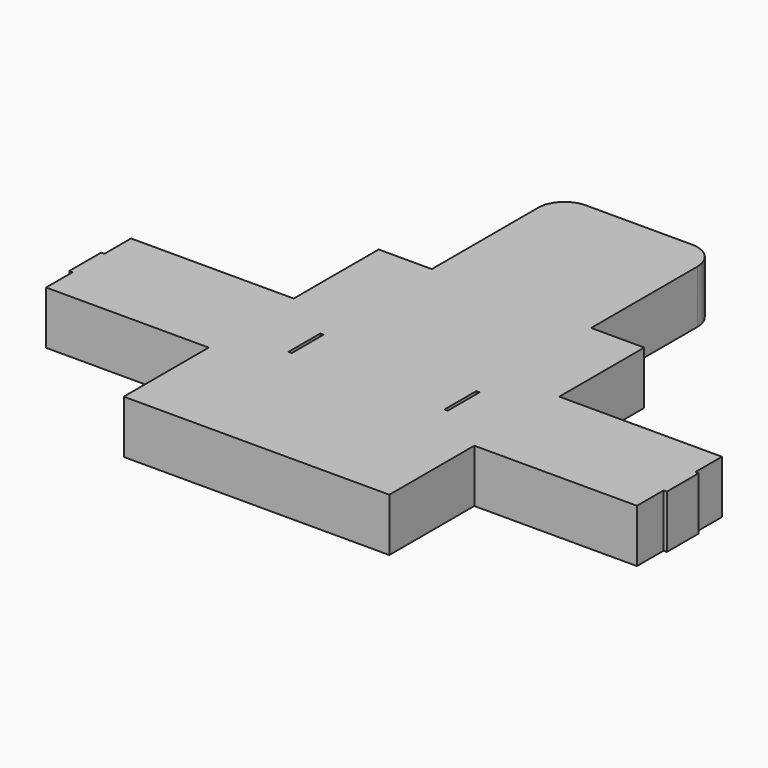
from build123d import *

# Parameters (mm, degrees)
F0_W     = 25.4
F0_H     = 50.8
F0_W_2   = 76.2
F0_W_3   = 1.5875
F0_H_2   = 19.05
F1_DEPTH = 25.4


with BuildPart() as f1:
    # F0 (on Top) → F1 (new body)
    with BuildSketch(Plane.XY):
        Polygon((63.5, 25.4), (38.1, 25.4), (38.1, 9.525), (38.1, -9.525), (38.1, -25.4), (63.5, -25.4), (88.9, -25.4), (88.9, 25.4), align=None)
        with Locations((50.8, 50.8)):
            Rectangle(F0_W, F0_H)
        with Locations((0, 50.8)):
            Rectangle(F0_W_2, F0_H)
        Polygon((-38.1, 9.525), (-38.1, 25.4), (-63.5, 25.4), (-88.9, 25.4), (-88.9, -25.4), (-63.5, -25.4), (-38.1, -25.4), (-38.1, -9.525), align=None)
        with Locations((-50.8, 50.8)):
            Rectangle(F0_W, F0_H)
        with Locations((0, 101.6)):
            Rectangle(F0_W_2, F0_H)
        with Locations((89.69375, 0)):
            Rectangle(F0_W_3, F0_H)
        with BuildLine():
            Line((-38.1, 127), (38.1, 127))
            Line((38.1, 127), (38.1, 139.7))
            ThreePointArc((38.1, 139.7), (34.3802561211, 148.6802561211), (25.4, 152.4))
            Line((25.4, 152.4), (-25.4, 152.4))
            ThreePointArc((-25.4, 152.4), (-34.3802561211, 148.6802561211), (-38.1, 139.7))
            Line((-38.1, 139.7), (-38.1, 127))
        make_face()
        with Locations((-89.69375, 0)):
            Rectangle(F0_W_3, F0_H)
        with Locations((0, -50.8)):
            Rectangle(F0_W_2, F0_H)
        with Locations((50.8, -50.8)):
            Rectangle(F0_W, F0_H)
        Polygon((141.2875, 25.4), (90.4875, 25.4), (90.4875, -25.4), (141.2875, -25.4), (141.2875, -9.525), (141.2875, 9.525), align=None)
        with Locations((-50.8, -50.8)):
            Rectangle(F0_W, F0_H)
        Polygon((-90.4875, -25.4), (-90.4875, 25.4), (-141.2875, 25.4), (-141.2875, 9.525), (-141.2875, -9.525), (-141.2875, -25.4), align=None)
        with Locations((142.08125, 0)):
            Rectangle(F0_W_3, F0_H_2)
        with Locations((-142.08125, 0)):
            Rectangle(F0_W_3, F0_H_2)
        Polygon((38.1, 9.525), (38.1, 25.4), (-38.1, 25.4), (-38.1, 9.525), (-36.5125, 9.525), (-36.5125, -9.525), (-38.1, -9.525), (-38.1, -25.4), (38.1, -25.4), (38.1, -9.525), (36.5125, -9.525), (36.5125, 9.525), align=None)
    extrude(amount=F1_DEPTH)


solid = f1.part
